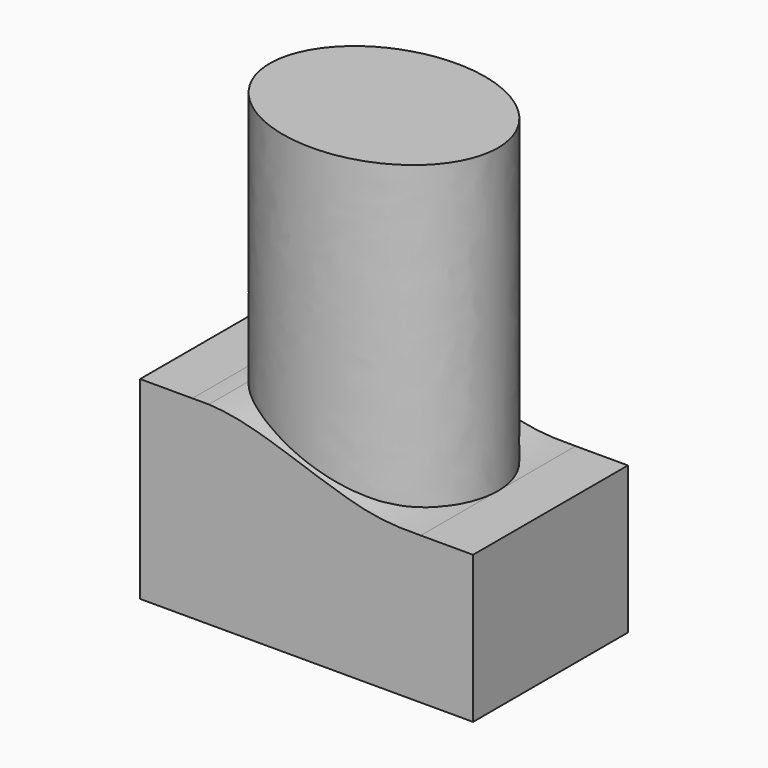
from build123d import *

# Parameters (mm, degrees)
F1_DEPTH = 15.6
F3_DEPTH = 5


with BuildPart() as f1:
    # F0 (on Top) → F1 (new body)
    with BuildSketch(Plane.XY):
        with BuildLine():
            add(Edge.make_bspline(
                [(5.9, 0), (5.9, 8.1406387956), (-2.95, 4.0703193978), (-11.8, 0), (-2.95, -4.0703193978), (5.9, -8.1406387956), (5.9, 0)],
                knots=[0, 0, 0, 2.0943951024, 2.0943951024, 4.1887902048, 4.1887902048, 6.2831853072, 6.2831853072, 6.2831853072], degree=2, weights=[1, 0.5, 1, 0.5, 1, 0.5, 1]))
        make_face()
    extrude(amount=-F1_DEPTH)


with BuildPart() as f3:
    # F2 (on Front) → F3 (new body, symmetric)
    with BuildSketch(Plane.XZ):
        with BuildLine():
            Line((8.6, -15.5999266599), (5.9, -15.5999266599))
            add(Edge.make_bspline(
                [(5.9, -15.5999266599), (5.1381250825, -15.6), (2.9003170717, -15.6781224351), (-2.2940876129, -13.4971751275), (-4.4868722131, -13.2257117797), (-5.0483275681, -13.2)],
                knots=[0, 0, 0, 0, 0.2868961947, 0.7133575292, 0.8972834683, 0.8972834683, 0.8972834683, 0.8972834683], degree=3))
            Line((-5.0483275681, -13.2), (-5.9, -13.2))
            Line((-5.9, -13.2), (-8.6, -13.2))
            Line((-8.6, -13.2), (-8.6, -23.2))
            Line((-8.6, -23.2), (8.6, -23.2))
            Line((8.6, -23.2), (8.6, -15.5999266599))
        make_face()
        with BuildLine():
            Line((-5.9, -13.2), (-5.0483275681, -13.2))
            add(Edge.make_bspline(
                [(-5.0483275681, -13.2), (-5.3618817466, -13.1856408245), (-5.6444691473, -13.1887744637), (-5.9, -13.2)],
                knots=[0.8972834683, 0.8972834683, 0.8972834683, 0.8972834683, 1, 1, 1, 1], degree=3))
        make_face()
    extrude(amount=F3_DEPTH, both=True)


solid = Compound([f1.part, f3.part])
